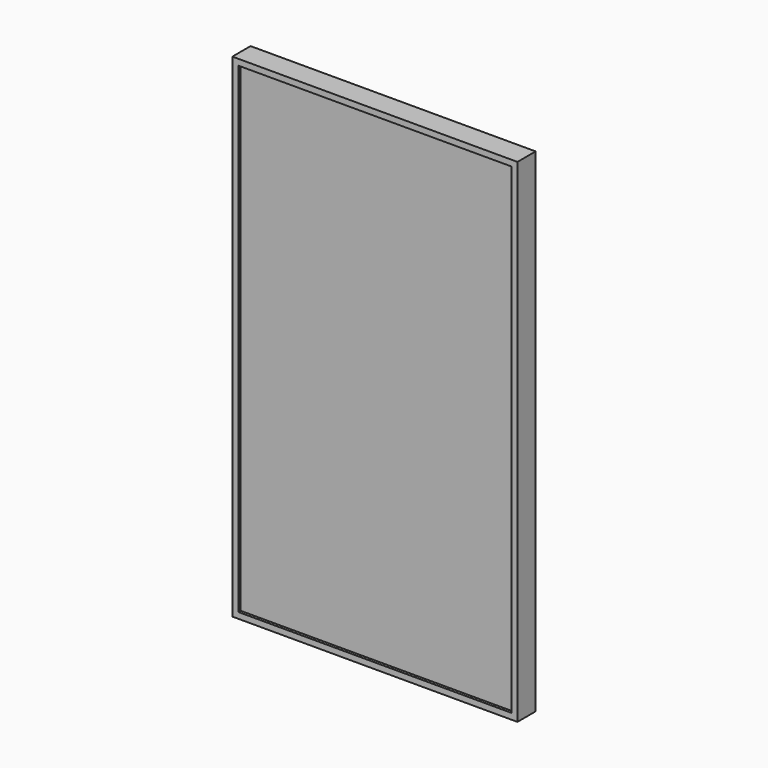
from build123d import *

# Parameters (mm, degrees)
F0_W     = 869.188
F0_H     = 1530.858
F1_DEPTH = 63.5
F0_W_2   = 907.288
F0_H_2   = 1568.958
F2_DEPTH = 72.39


with BuildPart() as f1:
    # F0 (on Front) → F1 (new body)
    with BuildSketch(Plane.XZ):
        Rectangle(F0_W, F0_H)
    extrude(amount=F1_DEPTH)

    # F0 (on Front) → F2 (join)
    with BuildSketch(Plane.XZ):
        Rectangle(F0_W_2, F0_H_2)
        Rectangle(F0_W, F0_H, mode=Mode.SUBTRACT)
    extrude(amount=F2_DEPTH)


solid = f1.part
